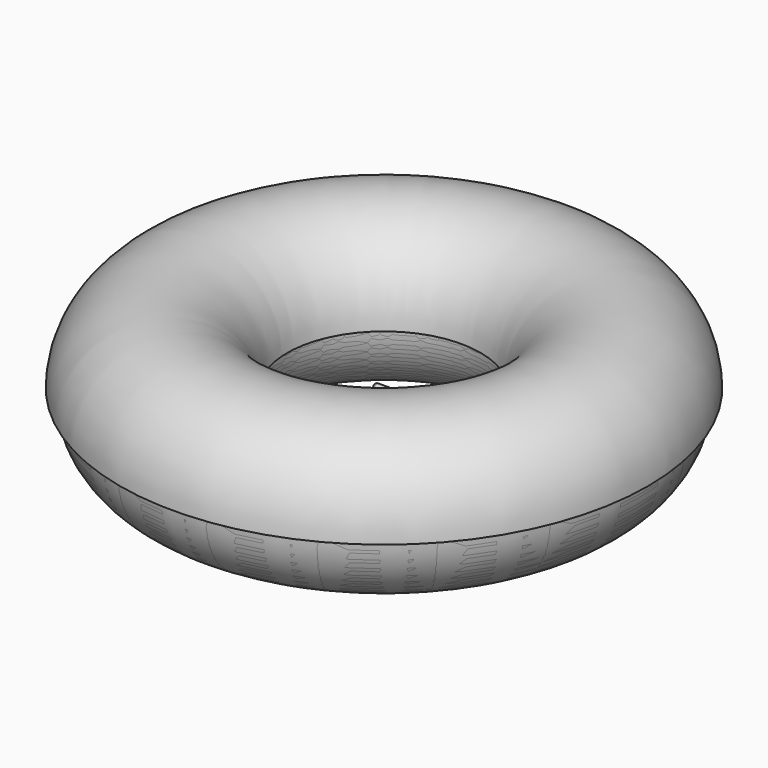
from build123d import *


with BuildPart() as f1:
    # F0 (on Front) → F1 (revolve)
    with BuildSketch(Plane.XZ):
        with BuildLine():
            ThreePointArc((44.0078703351, 0), (76.5078703351, -32.5), (109.0078703351, 0))
            ThreePointArc((109.0078703351, 0), (76.5078703351, 32.5), (44.0078703351, 0))
        make_face()
    revolve(axis=Axis((0, 0, -8.3772406125), (0, 0, -1)))


with BuildPart() as f2:
    # F0 (on Front) → F2 (revolve)
    with BuildSketch(Plane.XZ):
        with BuildLine():
            ThreePointArc((44.0078703351, 0), (76.5078703351, -32.5), (109.0078703351, 0))
            ThreePointArc((109.0078703351, 0), (76.5078703351, 32.5), (44.0078703351, 0))
        make_face()
        with BuildLine():
            ThreePointArc((44.0078703351, 0), (76.5078703351, 32.5), (109.0078703351, 0))
            Line((109.0078703351, 0), (112.0078703351, 0))
            ThreePointArc((112.0078703351, 0), (76.5078703351, 35.5), (41.0078703351, 0))
            Line((41.0078703351, 0), (44.0078703351, 0))
        make_face()
    revolve(axis=Axis((0, 0, 0), (0, 0, 1)))


with BuildPart() as f4:
    # F3 (on Top) → F4 (revolve)
    with BuildSketch(Plane.XY):
        with BuildLine():
            Line((-2.3865947401, -1.9786969331), (2.6134052599, -1.9786969331))
            ThreePointArc((2.6134052599, -1.9786969331), (3.5461465835, -1.5923428266), (3.9325006899, -0.659601503))
            Line((3.9325006899, -0.659601503), (-3.7056901702, -0.659601503))
            ThreePointArc((-3.7056901702, -0.659601503), (-3.3193360638, -1.5923428266), (-2.3865947401, -1.9786969331))
        make_face()
    revolve(axis=Axis((0.2188906074, -0.659601503, 0), (-1, 0, 0)))


solid = Compound([f1.part, f2.part, f4.part])
